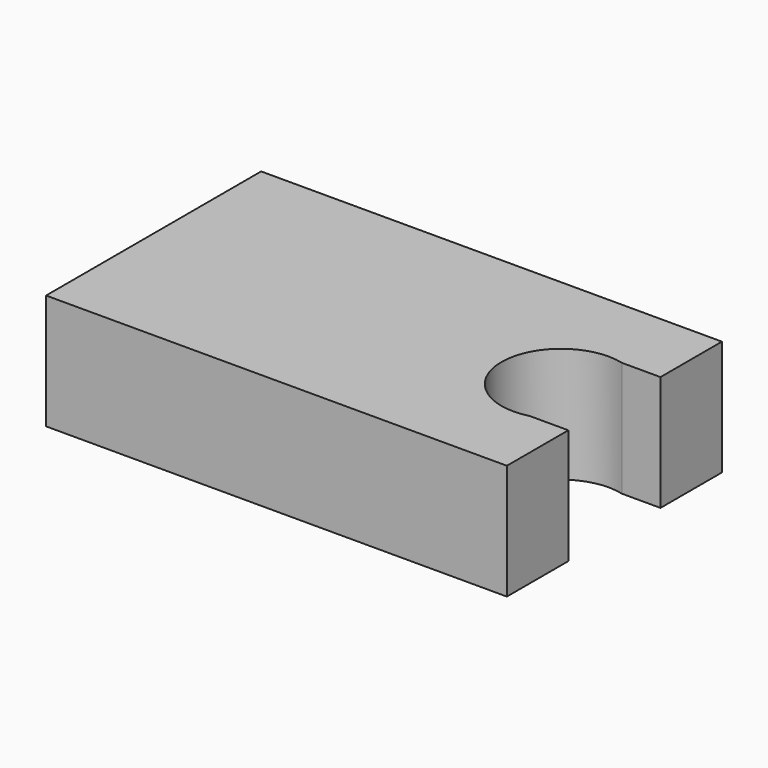
from build123d import *

# Parameters (mm, degrees)
F1_DEPTH = 6


with BuildPart() as f1:
    # F0 (on Top) → F1 (new body)
    with BuildSketch(Plane.XY):
        with BuildLine():
            Line((-12, -7), (12, -7))
            Line((12, -7), (12, -3))
            Line((12, -3), (10, -3))
            ThreePointArc((10, -3), (6.118975, 0), (10, 3))
            Line((10, 3), (12, 3))
            Line((12, 3), (12, 7))
            Line((12, 7), (-12, 7))
            Line((-12, 7), (-12, -7))
        make_face()
    extrude(amount=F1_DEPTH)


solid = f1.part
